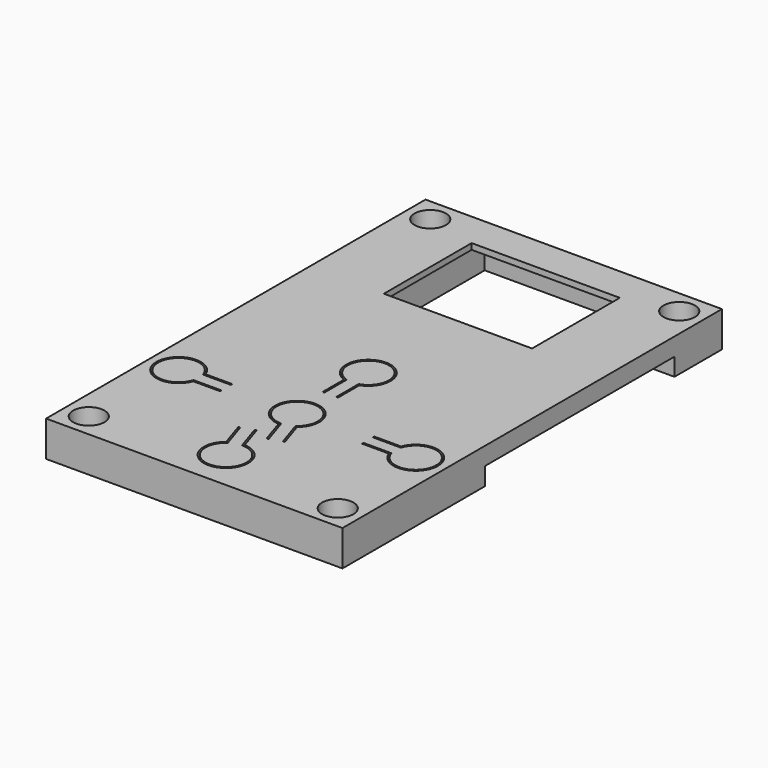
from build123d import *

# Parameters (mm, degrees)
SKETCH011_W     = 50
SKETCH011_H     = 80
PAD005_DEPTH    = 6
SKETCH012_R     = 1.7
POCKET005_DEPTH = 6
SKETCH013_W     = 7
SKETCH013_H     = 6
POCKET006_DEPTH = 5
SKETCH014_W     = 27
SKETCH014_H     = 27
POCKET007_DEPTH = 5
SKETCH015_W     = 25
SKETCH015_H     = 18.5
POCKET008_DEPTH = 1
POCKET009_DEPTH = 5
POCKET010_DEPTH = 1
SKETCH019_W     = 18
SKETCH019_H     = 5
POCKET011_DEPTH = 3
SKETCH020_W     = 4
SKETCH020_H     = 51
POCKET012_DEPTH = 3
SKETCH021_W     = 5
SKETCH021_H     = 40
POCKET013_DEPTH = 3
SKETCH023_R     = 2.65
POCKET014_DEPTH = 3.2


with BuildPart() as part:
    # Sketch011 → Pad005 (new body)
    with BuildSketch(Plane.XY):
        Rectangle(SKETCH011_W, SKETCH011_H)
    extrude(amount=PAD005_DEPTH)

    # Sketch012 (on Face6 of Pad005) → Pocket005 (cut)
    with BuildSketch(Plane.XY.offset(6)):
        with Locations((-21, 36)):
            Circle(SKETCH012_R)
        with Locations((21, 36)):
            Circle(SKETCH012_R)
        with Locations((-21, -36)):
            Circle(SKETCH012_R)
        with Locations((21, -36)):
            Circle(SKETCH012_R)
    extrude(amount=-POCKET005_DEPTH, mode=Mode.SUBTRACT)

    # Sketch013 (on Face4 of Pocket005) → Pocket006 (cut)
    with BuildSketch(Plane(origin=(0, 0, 0), x_dir=(1, 0, 0), z_dir=(0, 0, -1))):
        with Locations((0, 33.3)):
            Rectangle(SKETCH013_W, SKETCH013_H)
        with Locations((0, 3.3)):
            Rectangle(SKETCH013_W, SKETCH013_H)
        with Locations((0, 18.3)):
            Rectangle(SKETCH013_W, SKETCH013_H)
        with Locations((20, 18.3)):
            Rectangle(SKETCH013_W, SKETCH013_H)
        with Locations((-20, 18.3)):
            Rectangle(SKETCH013_W, SKETCH013_H)
    extrude(amount=-POCKET006_DEPTH, mode=Mode.SUBTRACT)

    # Sketch014 (on Face4 of Pocket006) → Pocket007 (cut)
    with BuildSketch(Plane(origin=(0, 0, 0), x_dir=(1, 0, 0), z_dir=(0, 0, -1))):
        with Locations((0, -24.6)):
            Rectangle(SKETCH014_W, SKETCH014_H)
    extrude(amount=-POCKET007_DEPTH, mode=Mode.SUBTRACT)

    # Sketch015 (on Face40 of Pocket007) → Pocket008 (cut)
    with BuildSketch(Plane(origin=(0, 0, 5), x_dir=(1, 0, 0), z_dir=(0, 0, -1))):
        with Locations((0, -24.85)):
            Rectangle(SKETCH015_W, SKETCH015_H)
    extrude(amount=-POCKET008_DEPTH, mode=Mode.SUBTRACT)

    # Sketch017 (on Face4 of Pocket008) → Pocket009 (cut)
    with BuildSketch(Plane(origin=(0, 0, 0), x_dir=(1, 0, 0), z_dir=(0, 0, -1))):
        Polygon((4.5, 37.5), (-4.5, 37.5), (-4.5, 22.3), (-24, 22.3), (-24, 14.3), (-4.5, 14.3), (-4.5, -0.9), (4.5, -0.9), (4.5, 14.3), (24, 14.3), (24, 22.3), (4.5, 22.3), align=None)
    extrude(amount=-POCKET009_DEPTH, mode=Mode.SUBTRACT)

    # Sketch018 (on Face32 of Pocket009) → Pocket010 (cut)
    with BuildSketch(Plane(origin=(0, 0, 5), x_dir=(1, 0, 0), z_dir=(0, 0, -1))):
        with BuildLine():
            ThreePointArc((0.145291, 29.552816), (1.162743, 36.865183), (-2.326569, 30.358984))
            Line((-2.326569, 30.358984), (-3.72186, 26.080764))
            Line((-3.436646, 25.987745), (-3.72186, 26.080764))
            Line((-1.974516, 30.470904), (-3.436646, 25.987745))
            ThreePointArc((-0.073085, 29.850774), (1.069723, 36.579968), (-1.974516, 30.470904))
            Line((-0.073085, 29.850774), (-1.535215, 25.367615))
            Line((-1.25, 25.274596), (-1.535215, 25.367615))
            Line((0.145291, 29.552816), (-1.25, 25.274596))
        make_face()
        with BuildLine():
            ThreePointArc((-16.482544, 19.6), (-23.75, 18.3), (-16.482544, 17))
            Line((-16.482544, 17), (-11.982544, 17))
            Line((-11.982544, 17), (-11.982544, 17.3))
            Line((-16.698107, 17.3), (-11.982544, 17.3))
            ThreePointArc((-16.698107, 19.3), (-23.45, 18.3), (-16.698107, 17.3))
            Line((-16.698107, 19.3), (-11.982544, 19.3))
            Line((-11.982544, 19.3), (-11.982544, 19.6))
            Line((-16.482544, 19.6), (-11.982544, 19.6))
        make_face()
        with BuildLine():
            ThreePointArc((16.482544, 17), (23.75, 18.3), (16.482544, 19.6))
            Line((16.482544, 19.6), (11.982544, 19.6))
            Line((11.982544, 19.3), (11.982544, 19.6))
            Line((16.698107, 19.3), (11.982544, 19.3))
            ThreePointArc((16.698107, 17.3), (23.45, 18.3), (16.698107, 19.3))
            Line((16.698107, 17.3), (11.982544, 17.3))
            Line((11.982544, 17), (11.982544, 17.3))
            Line((16.482544, 17), (11.982544, 17))
        make_face()
        with BuildLine():
            ThreePointArc((-1.3, 6.817456), (0, -0.45), (1.3, 6.817456))
            Line((1.3, 6.817456), (1.3, 11.317456))
            Line((1.3, 11.317456), (1, 11.317456))
            Line((1, 6.601893), (1, 11.317456))
            ThreePointArc((-1, 6.601893), (0, -0.15), (1, 6.601893))
            Line((-1, 6.601893), (-1, 11.317456))
            Line((-1, 11.317456), (-1.3, 11.317456))
            Line((-1.3, 6.817456), (-1.3, 11.317456))
        make_face()
        with BuildLine():
            ThreePointArc((-0.145291, 22.047184), (-1.162743, 14.734817), (2.326569, 21.241016))
            Line((2.326569, 21.241016), (3.72186, 25.519236))
            Line((3.72186, 25.519236), (3.436646, 25.612255))
            Line((1.974516, 21.129096), (3.436646, 25.612255))
            ThreePointArc((0.073085, 21.749226), (-1.069723, 15.020032), (1.974516, 21.129096))
            Line((0.073085, 21.749226), (1.535215, 26.232385))
            Line((1.535215, 26.232385), (1.25, 26.325404))
            Line((-0.145291, 22.047184), (1.25, 26.325404))
        make_face()
    extrude(amount=-POCKET010_DEPTH, mode=Mode.SUBTRACT)

    # Sketch019 (on Face4 of Pocket010) → Pocket011 (cut)
    with BuildSketch(Plane(origin=(0, 0, 0), x_dir=(1, 0, 0), z_dir=(0, 0, -1))):
        with Locations((0, -4.5)):
            Rectangle(SKETCH019_W, SKETCH019_H)
    extrude(amount=-POCKET011_DEPTH, mode=Mode.SUBTRACT)

    # Sketch020 (on Face4 of Pocket011) → Pocket012 (cut)
    with BuildSketch(Plane(origin=(0, 0, 0), x_dir=(1, 0, 0), z_dir=(0, 0, -1))):
        with Locations((13, 13.7)):
            Rectangle(SKETCH020_W, SKETCH020_H)
    pocket012 = extrude(amount=-POCKET012_DEPTH, mode=Mode.SUBTRACT)

    # Mirrored003: Pocket012 across Sketch020 V_Axis
    add(pocket012.mirror(Plane(origin=(0, 0, 0), x_dir=(0, 0, -1), z_dir=(1, 0, 0))), mode=Mode.SUBTRACT)

    # Sketch021 (on Face4 of Mirrored003) → Pocket013 (cut)
    with BuildSketch(Plane(origin=(0, 0, 0), x_dir=(1, 0, 0), z_dir=(0, 0, -1))):
        with Locations((22.5, -10)):
            Rectangle(SKETCH021_W, SKETCH021_H)
    pocket013 = extrude(amount=-POCKET013_DEPTH, mode=Mode.SUBTRACT)

    # Mirrored004: Pocket013 across Sketch021 V_Axis
    add(pocket013.mirror(Plane(origin=(0, 0, 0), x_dir=(0, 0, -1), z_dir=(1, 0, 0))), mode=Mode.SUBTRACT)

    # Sketch023 (on Face7 of Mirrored004) → Pocket014 (cut)
    with BuildSketch(Plane.XY.offset(6)):
        with Locations((21, 36)):
            Circle(SKETCH023_R)
        with Locations((-21, 36)):
            Circle(SKETCH023_R)
        with Locations((-21, -36)):
            Circle(SKETCH023_R)
        with Locations((21, -36)):
            Circle(SKETCH023_R)
    extrude(amount=-POCKET014_DEPTH, mode=Mode.SUBTRACT)


solid = part.part
